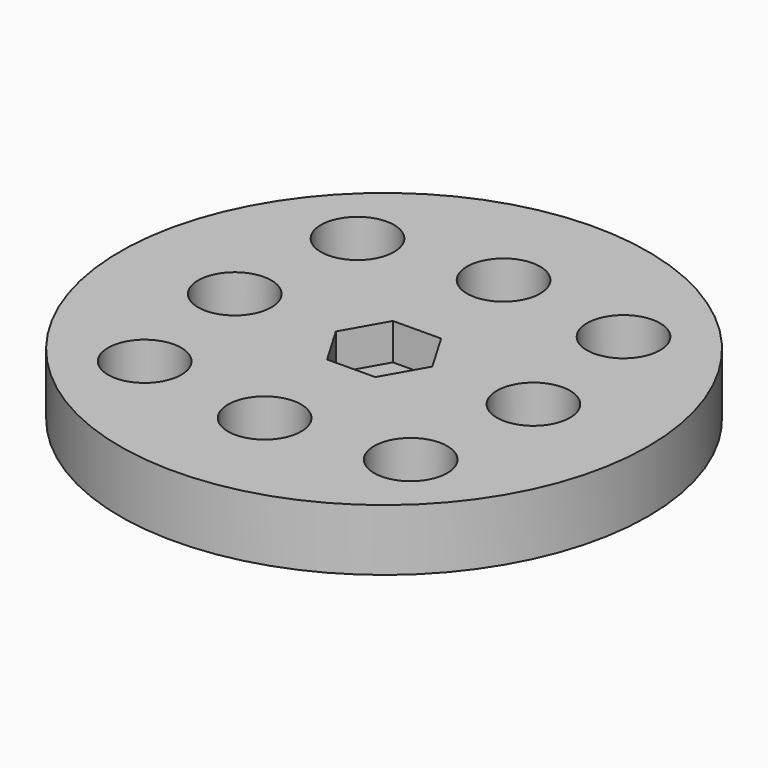
from build123d import *

# Parameters (mm, degrees)
F0_R     = 17.1577
F0_R_2   = 2.38
F0_R_3   = 1.47
F1_DEPTH = 4
F2_R     = 1.47
F3_DEPTH = 2.37


with BuildPart() as f1:
    # F0 (on Top) → F1 (new body)
    with BuildSketch(Plane.XY):
        Circle(F0_R)
        with Locations((-8.64629, -8.64629)):
            Circle(F0_R_2, mode=Mode.SUBTRACT)
        with Locations((0, -9.7077)):
            Circle(F0_R_2, mode=Mode.SUBTRACT)
        with Locations((8.64629, -8.64629)):
            Circle(F0_R_2, mode=Mode.SUBTRACT)
        with Locations((-9.7077, 0)):
            Circle(F0_R_2, mode=Mode.SUBTRACT)
        with Locations((-8.64629, 8.64629)):
            Circle(F0_R_2, mode=Mode.SUBTRACT)
        Circle(F0_R_3, mode=Mode.SUBTRACT)
        with Locations((9.7077, 0)):
            Circle(F0_R_2, mode=Mode.SUBTRACT)
        with Locations((0, 9.7077)):
            Circle(F0_R_2, mode=Mode.SUBTRACT)
        with Locations((8.64629, 8.64629)):
            Circle(F0_R_2, mode=Mode.SUBTRACT)
    extrude(amount=F1_DEPTH)

    # F2 (on face) → F3 (cut)
    with BuildSketch(Plane.XY.offset(4)):
        Polygon((3.117599, 0.024062), (1.537961, 2.71195), (-1.579637, 2.687889), (-3.117599, -0.024062), (-1.537961, -2.71195), (1.579637, -2.687889), align=None)
        Circle(F2_R, mode=Mode.SUBTRACT)
    extrude(amount=-F3_DEPTH, mode=Mode.SUBTRACT)


solid = f1.part
